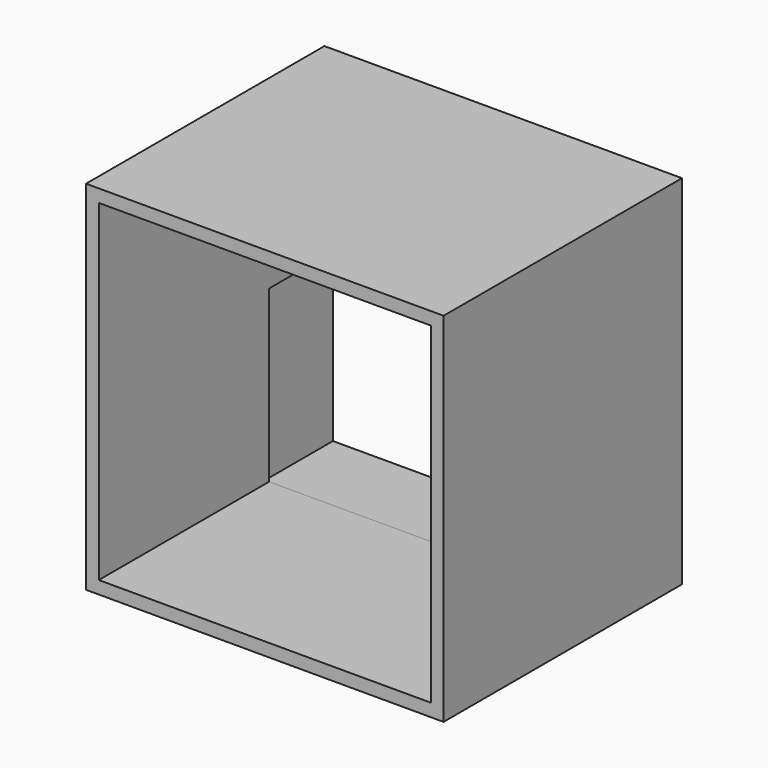
from build123d import *

# Parameters (mm, degrees)
F0_W     = 106.68
F0_H     = 106.68
F1_DEPTH = 88.9
F2_T     = -3.81
F3_W     = 101.6
F3_H     = 50.8
F4_DEPTH = 25.4


with BuildPart() as f1:
    # F0 (on Front) → F1 (new body)
    with BuildSketch(Plane.XZ):
        with Locations((53.34, 53.34)):
            Rectangle(F0_W, F0_H)
    extrude(amount=-F1_DEPTH)

    # F2
    f2_openings = [f1.faces().sort_by_distance(p)[0] for p in [
        (53.34, 0, 53.34),
    ]]
    offset(amount=F2_T, openings=f2_openings)

    # F3 (on face) → F4 (cut)
    with BuildSketch(Plane(origin=(0, 88.9, 0), x_dir=(-1, 0, 0), z_dir=(0, 1, 0))):
        with Locations((-53.34, 29.175188)):
            Rectangle(F3_W, F3_H)
    extrude(amount=-F4_DEPTH, mode=Mode.SUBTRACT)


solid = f1.part
